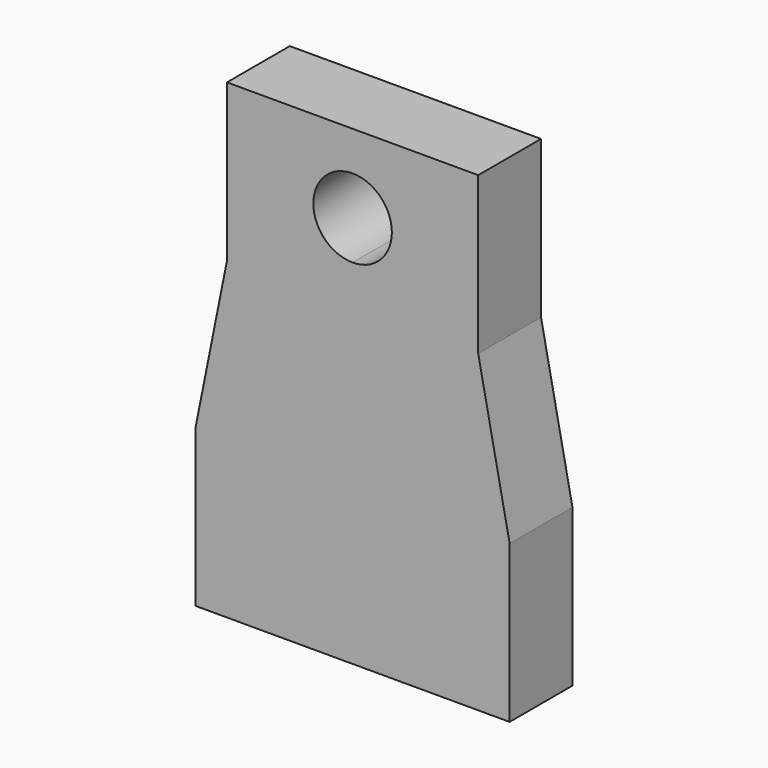
from build123d import *

# Parameters (mm, degrees)
F1_DEPTH = 6.35


with BuildPart() as f1:
    # F0 (on Front) → F1 (new body)
    with BuildSketch(Plane.XZ):
        with BuildLine():
            ThreePointArc((15.875, 31.75), (10.454936, 33.995064), (12.7, 28.575))
            ThreePointArc((12.7, 28.575), (14.945064, 29.504936), (15.875, 31.75))
        make_face()
        Polygon((0, 12.7), (0, 0), (12.7, 0), (25.4, 0), (25.4, 12.7), (22.86, 25.4), (22.86, 38.1), (2.54, 38.1), (2.54, 25.4), align=None)
        with BuildLine():
            ThreePointArc((15.875, 31.75), (14.945064, 29.504936), (12.7, 28.575))
            ThreePointArc((12.7, 28.575), (10.454936, 33.995064), (15.875, 31.75))
        make_face(mode=Mode.SUBTRACT)
    extrude(amount=F1_DEPTH)


solid = f1.part
